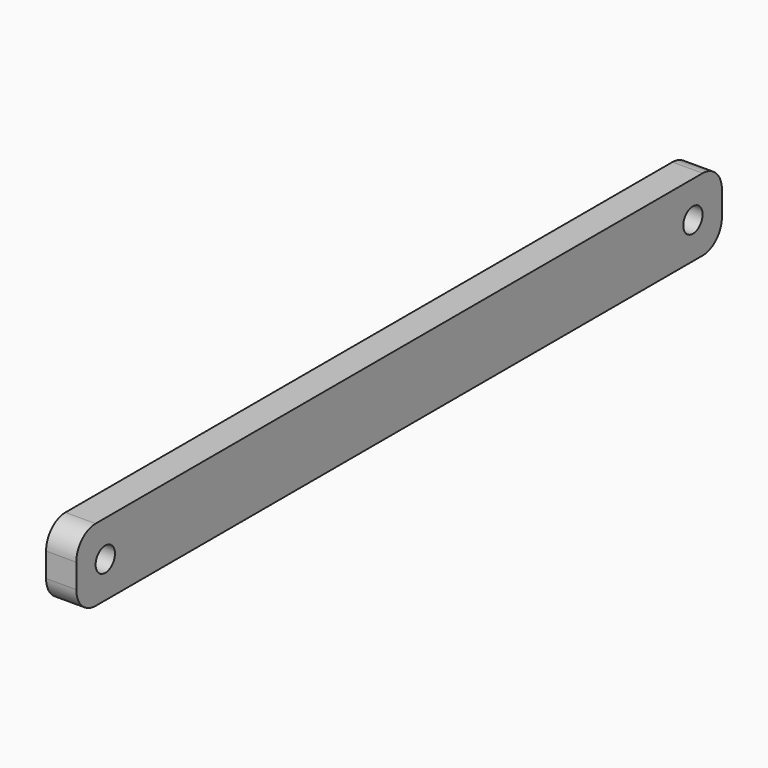
from build123d import *

# Parameters (mm, degrees)
F0_W     = 668
F0_H     = 60
F0_R     = 10
F1_DEPTH = 25
F2_R     = 20
F3_R     = 20
F4_R     = 20
F5_R     = 20


with BuildPart() as f1:
    # F0 (on Right) → F1 (new body)
    with BuildSketch(Plane.YZ):
        with Locations((247.531975, 0)):
            Rectangle(F0_W, F0_H)
        with Locations((-56.468025, 0)):
            Circle(F0_R, mode=Mode.SUBTRACT)
        with Locations((551.531975, 0)):
            Circle(F0_R, mode=Mode.SUBTRACT)
    extrude(amount=F1_DEPTH)

    # F2
    f2_edges = [f1.edges().sort_by_distance(p)[0] for p in [
        (12.5, 581.531975, 30),
    ]]
    fillet(f2_edges, radius=F2_R)

    # F3
    f3_edges = [f1.edges().sort_by_distance(p)[0] for p in [
        (12.5, 581.531975, -30),
    ]]
    fillet(f3_edges, radius=F3_R)

    # F4
    f4_edges = [f1.edges().sort_by_distance(p)[0] for p in [
        (12.5, -86.468025, 30),
    ]]
    fillet(f4_edges, radius=F4_R)

    # F5
    f5_edges = [f1.edges().sort_by_distance(p)[0] for p in [
        (12.5, -86.468025, -30),
    ]]
    fillet(f5_edges, radius=F5_R)


solid = f1.part
